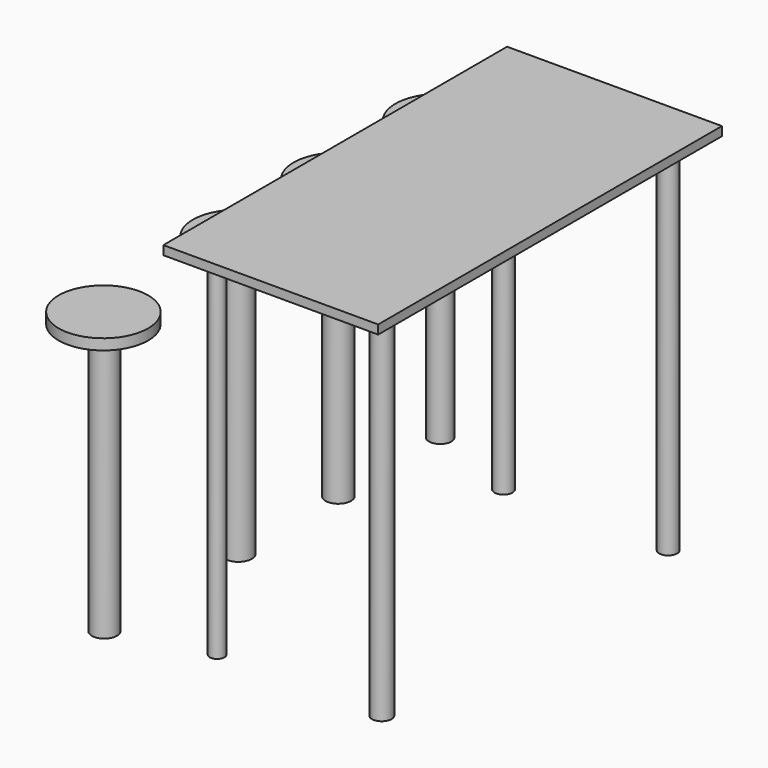
from build123d import *

# Parameters (mm, degrees)
F1_R     = 25
F1_R_2   = 25.051824
F1_R_3   = 27.279717
F1_R_4   = 20.357676
F2_DEPTH = 1000
F0_W     = 600
F0_H     = 1200
F3_DEPTH = 25
F4_R     = 35
F4_R_2   = 37.540582
F4_R_3   = 35.614116
F4_R_4   = 31.235629
F5_DEPTH = 750
F6_R     = 125
F7_DEPTH = 30
F8_R     = 125
F9_DEPTH = 30


with BuildPart() as f2:
    # F1 (on face) → F2 (new body)
    with BuildSketch(Plane.XY):
        with Locations((-530, 1100)):
            Circle(F1_R)
        with Locations((-70, 1100)):
            Circle(F1_R_2)
        with Locations((-70, 100)):
            Circle(F1_R_3)
        with Locations((-530, 100)):
            Circle(F1_R_4)
    extrude(amount=-F2_DEPTH)


with BuildPart() as f3:
    # F0 (on Top) → F3 (new body)
    with BuildSketch(Plane.XY):
        with Locations((-300, 600)):
            Rectangle(F0_W, F0_H)
    extrude(amount=F3_DEPTH)


with BuildPart() as f5:
    # F4 (on face) → F5 (new body)
    with BuildSketch(Plane(origin=(0, 0, -1000), x_dir=(1, 0, 0), z_dir=(0, 0, -1))):
        with Locations((-791.019559, -32.980834)):
            Circle(F4_R)
        with Locations((-791.019559, -500.519117)):
            Circle(F4_R_2)
        with Locations((-791.019559, -849.526593)):
            Circle(F4_R_3)
        with Locations((-791.019559, -1205.119055)):
            Circle(F4_R_4)
    extrude(amount=-F5_DEPTH)

    # F6 (on face) → F7 (join)
    with BuildSketch(Plane.XY.offset(-250)):
        with Locations((-791.019559, 1205.119055)):
            Circle(F6_R)
    extrude(amount=F7_DEPTH)


with BuildPart() as f9:
    # F8 (on face) → F9 (new body)
    with BuildSketch(Plane.XY.offset(-250)):
        with Locations((-791.019559, 849.526593)):
            Circle(F8_R)
        with Locations((-793.872204, 501.4797)):
            Circle(F8_R)
        with Locations((-799.210943, 39.681176)):
            Circle(F8_R)
    extrude(amount=F9_DEPTH)


solid = Compound([f2.part, f3.part, f5.part, f9.part])
